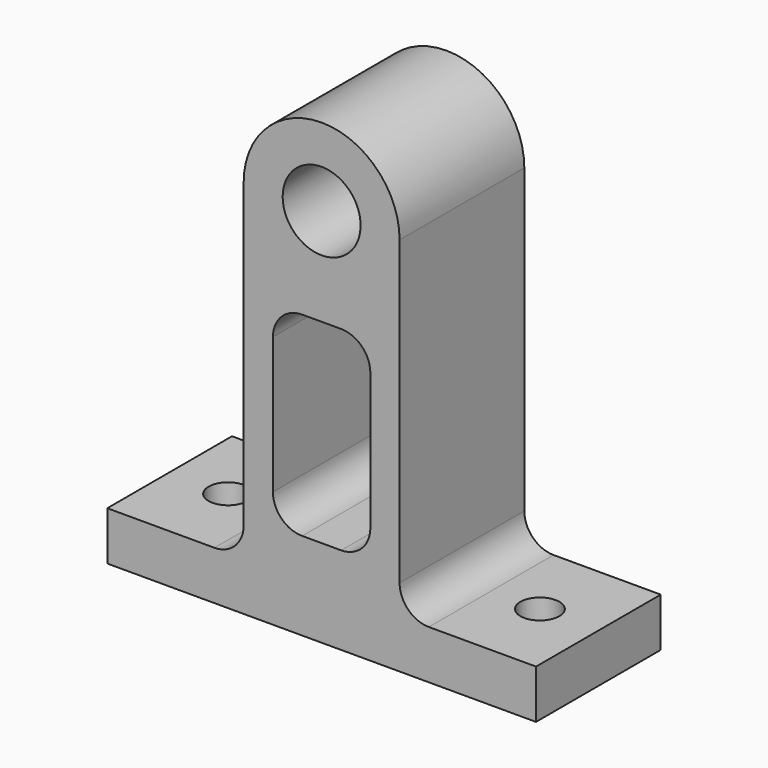
from build123d import *

# Parameters (mm, degrees)
F0_W     = 10
F0_H     = 20
F1_DEPTH = 16
F2_D     = 8
F4_D     = 4
F5_R     = 3


with BuildPart() as f1:
    # F0 (on Front) → F1 (new body)
    with BuildSketch(Plane.XZ):
        with BuildLine():
            Line((-8, 2.5), (-22, 2.5))
            Line((-22, 2.5), (-22, -2.5))
            Line((-22, -2.5), (22, -2.5))
            Line((22, -2.5), (22, 2.5))
            Line((22, 2.5), (8, 2.5))
            Line((8, 2.5), (8, 36.5))
            ThreePointArc((8, 36.5), (0, 44.5), (-8, 36.5))
            Line((-8, 36.5), (-8, 2.5))
        make_face()
        with Locations((0, 16.5)):
            Rectangle(F0_W, F0_H, mode=Mode.SUBTRACT)
    extrude(amount=F1_DEPTH)

    # F2 (through all)
    with Locations(Plane(origin=(0, 0, 0), x_dir=(1, 0, 0), z_dir=(0, 1, 0))):
        with Locations((0, -36.5)):
            Hole(F2_D / 2)

    # F4 (through all)
    with Locations(Plane(origin=(0, 0, -2.5), x_dir=(1, 0, 0), z_dir=(0, 0, -1))):
        with Locations((-16, 8), (16, 8)):
            Hole(F4_D / 2)

    # F5
    f5_edges = [f1.edges().sort_by_distance(p)[0] for p in [
        (-8, -8, 2.5),
        (8, -8, 2.5),
        (5, -8, 6.5),
        (-5, -8, 6.5),
        (-5, -8, 26.5),
        (5, -8, 26.5),
    ]]
    fillet(f5_edges, radius=F5_R)


solid = f1.part
